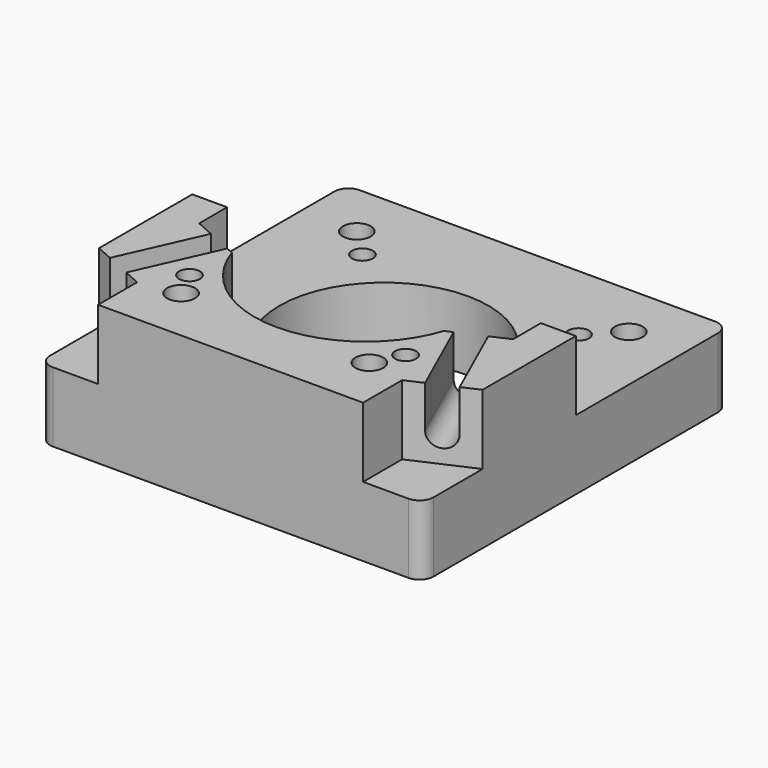
from build123d import *

# Parameters (mm, degrees)
PAD009_DEPTH         = 10
PAD010_DEPTH         = 10
POCKET011_DEPTH      = 223.4231860076
SKETCH024_R          = 15
SKETCH024_R_2        = 1.5
SKETCH024_R_3        = 2
POCKET012_DEPTH      = 10.001
POCKET012_DEPTH_BACK = 10.001
POCKET013_DEPTH      = 3


with BuildPart() as part:
    # Sketch021 → Pad009 (new body)
    with BuildSketch(Plane.XY.offset(40.1)):
        with BuildLine():
            Line((-25.5, 27.5), (25.5, 27.5))
            ThreePointArc((27.5, 25.5), (26.9142135624, 26.9142135624), (25.5, 27.5))
            Line((27.5, 25.5), (27.5, -25.5))
            ThreePointArc((25.5, -27.5), (26.9142135624, -26.9142135624), (27.5, -25.5))
            Line((25.5, -27.5), (-25.5, -27.5))
            ThreePointArc((-27.5, -25.5), (-26.9142135624, -26.9142135624), (-25.5, -27.5))
            Line((-27.5, -25.5), (-27.5, 25.5))
            ThreePointArc((-25.5, 27.5), (-26.9142135624, 26.9142135624), (-27.5, 25.5))
        make_face()
    extrude(amount=PAD009_DEPTH)

    # Sketch022 → Pad010 (join)
    with BuildSketch(Plane.XY.offset(50.1)):
        with BuildLine():
            Line((-27.5, 0), (-22.5, 0))
            Line((-22.5, 0), (-22.5, -5))
            Line((-22.5, -5), (-15.1966113671, -8.26504433))
            ThreePointArc((-15.1966113671, -8.26504433), (0, -19.2587479987), (15.1966113671, -8.26504433))
            Line((22.5, -5), (15.1966113671, -8.26504433))
            Line((22.5, 0), (22.5, -5))
            Line((22.5, 0), (27.5, 0))
            Line((27.5, -16.7), (27.5, 0))
            Line((19, -20.5), (27.5, -16.7))
            Line((19, -27.5), (19, -20.5))
            Line((-19, -27.5), (19, -27.5))
            Line((-19, -20.5), (-19, -27.5))
            Line((-27.5, -16.7), (-19, -20.5))
            Line((-27.5, 0), (-27.5, -16.7))
        make_face()
    extrude(amount=PAD010_DEPTH)

    # Sketch023 (on Face25 of Pad010) → Pocket011 (cut, through all)
    with BuildSketch(Plane(origin=(-10.8029761218, -24.1645518514, 0), x_dir=(0.9129235791, -0.4081305413, 0), z_dir=(-0.4081305413, -0.9129235791, 0))):
        with BuildLine():
            Line((-15.6342451471, 60.1), (-11.6342451471, 60.1))
            Line((-11.6342451471, 60.1), (-11.6342451471, 54.1))
            ThreePointArc((-15.6342451471, 54.1), (-13.6342451471, 52.1), (-11.6342451471, 54.1))
            Line((-15.6342451471, 60.1), (-15.6342451471, 54.1))
        make_face()
    pocket011 = extrude(amount=-POCKET011_DEPTH, mode=Mode.SUBTRACT)

    # Mirrored: Pocket011 across YZ
    add(pocket011.mirror(Plane.YZ), mode=Mode.SUBTRACT)

    # Sketch024 → Pocket012 (cut, two sides)
    with BuildSketch(Plane.XY.offset(50.1)) as pocket012_sk:
        Circle(SKETCH024_R)
        with Locations((15.495, 15.495)):
            Circle(SKETCH024_R_2)
        with Locations((15.495, -15.495)):
            Circle(SKETCH024_R_2)
        with Locations((-15.495, -15.495)):
            Circle(SKETCH024_R_2)
        with Locations((-15.495, 15.495)):
            Circle(SKETCH024_R_2)
        with Locations((-19.5, 19.5)):
            Circle(SKETCH024_R_3)
        with Locations((-13.5, -19.5)):
            Circle(SKETCH024_R_3)
        with Locations((13.5, -19.5)):
            Circle(SKETCH024_R_3)
        with Locations((19.5, 19.5)):
            Circle(SKETCH024_R_3)
    extrude(amount=-POCKET012_DEPTH, mode=Mode.SUBTRACT)
    extrude(pocket012_sk.sketch, amount=POCKET012_DEPTH_BACK, mode=Mode.SUBTRACT)

    # Sketch026 → Pocket013 (cut)
    with BuildSketch(Plane.XY.offset(40.1)):
        Polygon((22.9641016151, 17.5), (22.9641016151, 21.5), (19.5, 23.5), (16.0358983849, 21.5), (16.0358983849, 17.5), (19.5, 15.5), align=None)
        Polygon((16.9641016151, -21.5), (16.9641016151, -17.5), (13.5, -15.5), (10.0358983849, -17.5), (10.0358983849, -21.5), (13.5, -23.5), align=None)
        Polygon((-10.0358983849, -21.5), (-10.0358983849, -17.5), (-13.5, -15.5), (-16.9641016151, -17.5), (-16.9641016151, -21.5), (-13.5, -23.5), align=None)
        Polygon((-16.0358983849, 17.5), (-16.0358983849, 21.5), (-19.5, 23.5), (-22.9641016151, 21.5), (-22.9641016151, 17.5), (-19.5, 15.5), align=None)
    extrude(amount=POCKET013_DEPTH, mode=Mode.SUBTRACT)


solid = part.part
